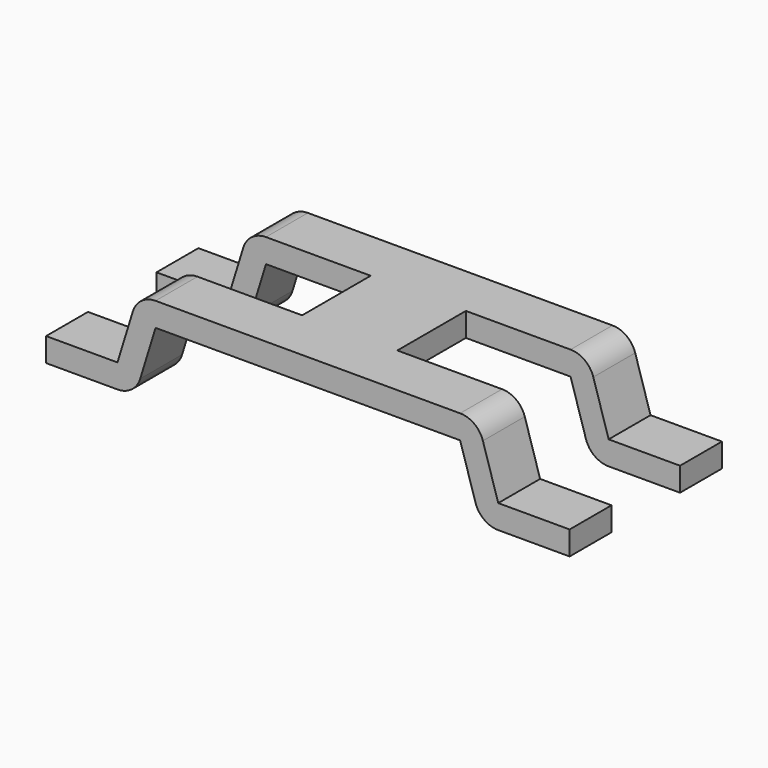
from build123d import *

# Parameters (mm, degrees)
PAD009_DEPTH         = 2
SKETCH015_W          = 5
SKETCH015_H          = 1.8
POCKET001_DEPTH      = 23.716818
POCKET001_DEPTH_BACK = 25.616818


with BuildPart() as part:
    # Sketch014 → Pad009 (new body, symmetric)
    with BuildSketch(Plane.XZ):
        with BuildLine():
            Line((0, 1.9), (3.2, 1.9))
            ThreePointArc((3.677897, 1.547019), (3.497061, 1.802188), (3.2, 1.9))
            Line((4, 0.5), (3.677897, 1.547019))
            Line((4, 0.5), (5.5, 0.5))
            Line((5.5, 0.5), (5.5, 0))
            Line((5.5, 0), (4, 0))
            ThreePointArc((3.522103, 0.352981), (3.702939, 0.097812), (4, 0))
            Line((3.2, 1.4), (3.522103, 0.352981))
            Line((3.2, 1.4), (0, 1.4))
            Line((0, 1.4), (0, 1.9))
        make_face()
    pad009 = extrude(amount=PAD009_DEPTH, both=True)

    # Mirrored: Pad009 across YZ
    add(pad009.mirror(Plane.YZ))

    # Sketch015 → Pocket001 (cut, two sides)
    with BuildSketch(Plane.XY) as pocket001_sk:
        with Locations((3.5, 0)):
            Rectangle(SKETCH015_W, SKETCH015_H)
    pocket001 = extrude(amount=-POCKET001_DEPTH, mode=Mode.SUBTRACT) + extrude(pocket001_sk.sketch, amount=POCKET001_DEPTH_BACK, mode=Mode.SUBTRACT)

    # Mirrored001: Pocket001 across YZ
    add(pocket001.mirror(Plane.YZ), mode=Mode.SUBTRACT)


with BuildPart() as part_1:
    # Body007 placement: moved
    add(part.part.moved(Location((0, 14.75, 0))))


solid = part_1.part
